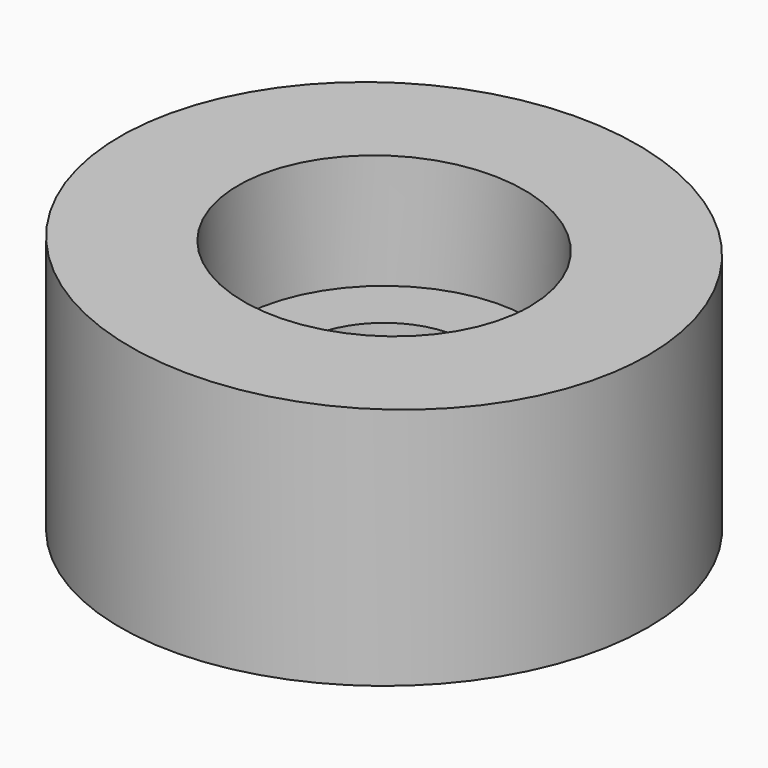
from build123d import *

# Parameters (mm, degrees)
F0_R     = 9.5
F0_R_2   = 5.25
F1_DEPTH = 10
F2_R     = 5.25
F2_R_2   = 3
F3_DEPTH = 5
F5_DEPTH = 12.5


with BuildPart() as f1:
    # F0 (on Top) → F1 (new body)
    with BuildSketch(Plane.XY):
        Circle(F0_R)
        Circle(F0_R_2, mode=Mode.SUBTRACT)
    extrude(amount=F1_DEPTH)

    # F2 (on Top) → F3 (join)
    with BuildSketch(Plane.XY):
        Circle(F2_R)
        Circle(F2_R_2, mode=Mode.SUBTRACT)
    extrude(amount=F3_DEPTH)

    # F4 (on Front) → F5 (intersect, symmetric)
    with BuildSketch(Plane.XZ):
        Polygon((25, 8), (-25, 10), (-25, 0), (25, 0), align=None)
    extrude(amount=F5_DEPTH, both=True, mode=Mode.INTERSECT)


solid = f1.part
